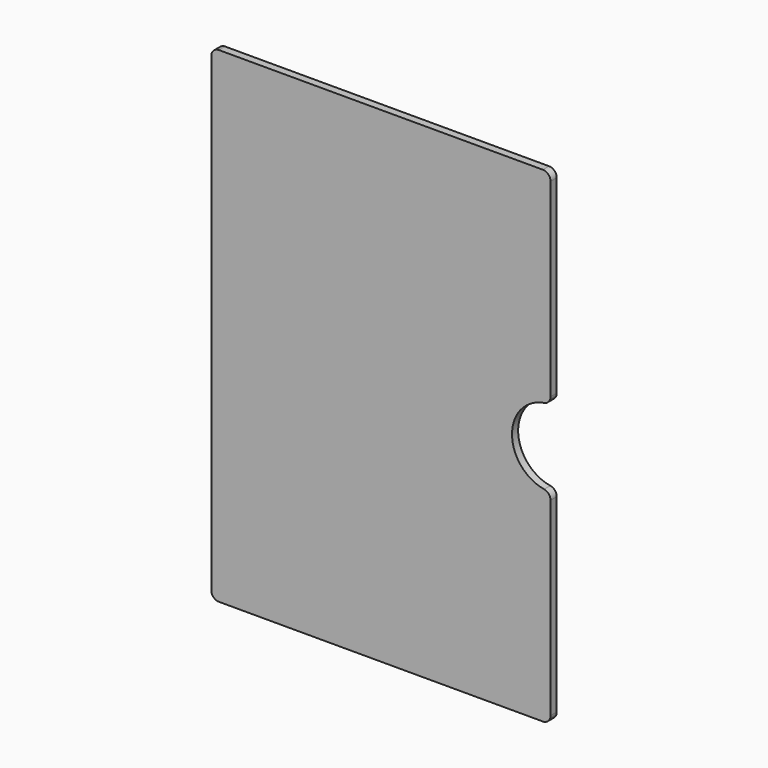
from build123d import *

# Parameters (mm, degrees)
F0_W     = 220
F0_H     = 315
F1_DEPTH = 5
F2_R     = 25
F3_DEPTH = 25
F4_R     = 5


with BuildPart() as f1:
    # F0 (on Front) → F1 (new body)
    with BuildSketch(Plane.XZ):
        Rectangle(F0_W, F0_H)
    extrude(amount=F1_DEPTH)

    # F2 (on face) → F3 (cut)
    with BuildSketch(Plane.XZ.offset(5)):
        with Locations((110, 0)):
            Circle(F2_R)
    extrude(amount=-F3_DEPTH, mode=Mode.SUBTRACT)

    # F4
    f4_edges = [f1.edges().sort_by_distance(p)[0] for p in [
        (110, -2.5, -25),
        (110, -2.5, 25),
        (110, -2.5, 157.5),
        (-110, -2.5, 157.5),
        (-110, -2.5, -157.5),
        (110, -2.5, -157.5),
    ]]
    fillet(f4_edges, radius=F4_R)


solid = f1.part
